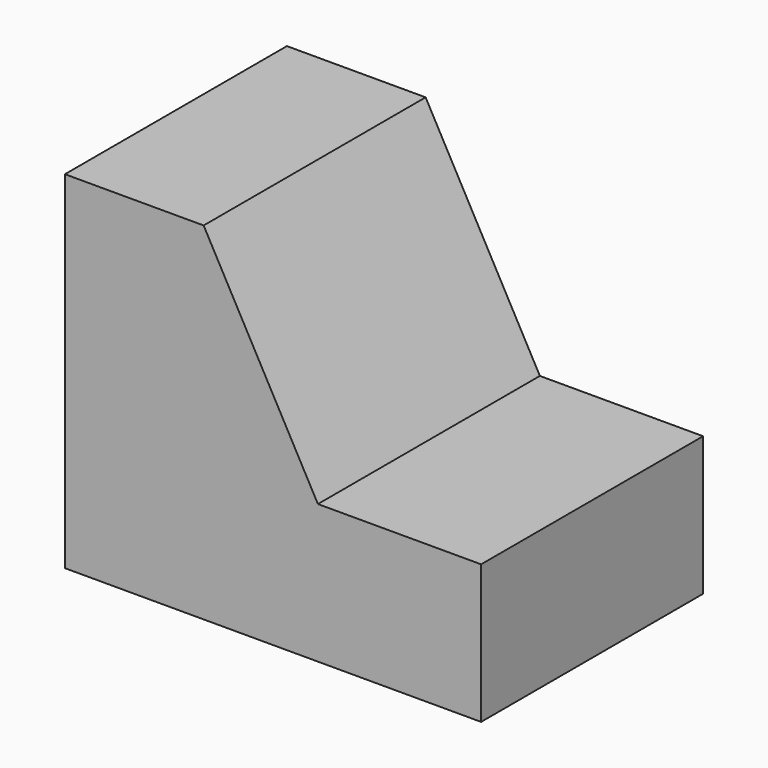
from build123d import *

# Parameters (mm, degrees)
F1_DEPTH = 25.4
F3_DEPTH = 25.4


with BuildPart() as f1:
    # F0 (on Front) → F1 (new body)
    with BuildSketch(Plane.XZ):
        Polygon((-23.158823, 0), (0, 0), (14.941177, 0), (14.941177, 31.75), (-23.158823, 31.75), align=None)
    extrude(amount=F1_DEPTH)

    # F2 (on face) → F3 (cut)
    with BuildSketch(Plane.XZ.offset(25.4)):
        Polygon((14.941177, 31.75), (-10.458823, 31.75), (0, 12.7), (14.941177, 12.7), align=None)
    extrude(amount=-F3_DEPTH, mode=Mode.SUBTRACT)


solid = f1.part
